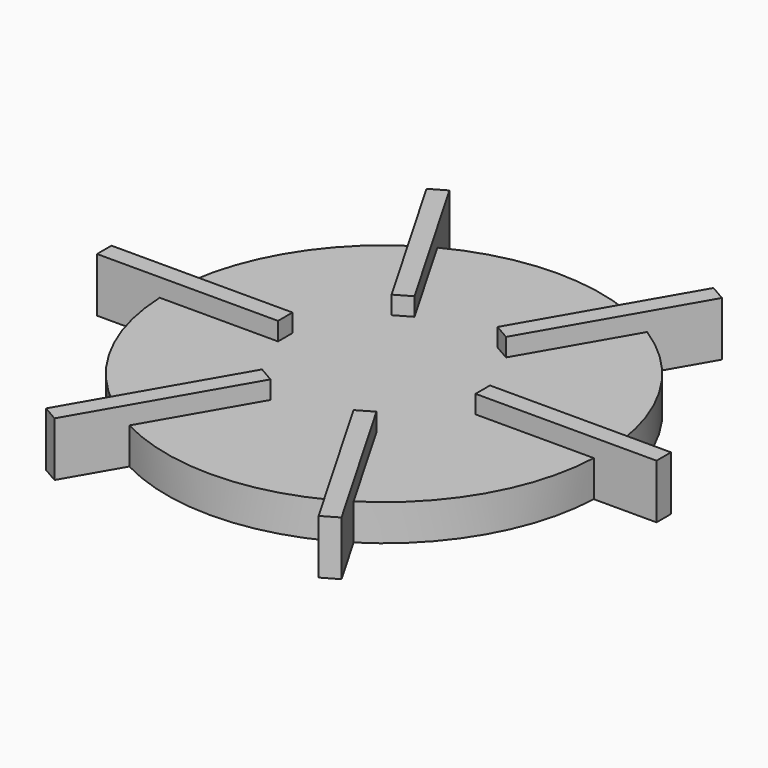
from build123d import *

# Parameters (mm, degrees)
CIRCLE_R         = 60
EXTRUDE067_DEPTH = 10
ARRAY019_W       = 5
ARRAY019_H       = 50
EXTRUDE066_DEPTH = 15


with BuildPart() as extrude093:
    # Circle → Extrude067 (new body)
    with BuildSketch(Plane.XY):
        Circle(CIRCLE_R)
    extrude(amount=EXTRUDE067_DEPTH)


with BuildPart() as fusion045:
    # Array019 → Extrude066 (new body)
    with BuildSketch(Plane(origin=(52.270737, 0, 0), x_dir=(0, 1, 0), z_dir=(0, 0, 1))):
        Rectangle(ARRAY019_W, ARRAY019_H)
        Polygon((22.367151, 36.470305), (65.668421, 11.470305), (68.168421, 15.800432), (24.867151, 40.800432), align=None)
        Polygon((24.867151, 63.741042), (68.168421, 88.741042), (65.668421, 93.071169), (22.367151, 68.071169), align=None)
        with Locations((0, 104.541473)):
            Rectangle(ARRAY019_W, ARRAY019_H)
        Polygon((-22.367151, 68.071169), (-65.668421, 93.071169), (-68.168421, 88.741042), (-24.867151, 63.741042), align=None)
        Polygon((-24.867151, 40.800432), (-68.168421, 15.800432), (-65.668421, 11.470305), (-22.367151, 36.470305), align=None)
    extrude(amount=EXTRUDE066_DEPTH)

    # Fusion045: union Extrude093
    add(extrude093.part)


with BuildPart() as fusion045_1:
    # Fusion045 placement: moved
    add(fusion045.part.moved(Location((150, -307.572449, 20))))


solid = fusion045_1.part
